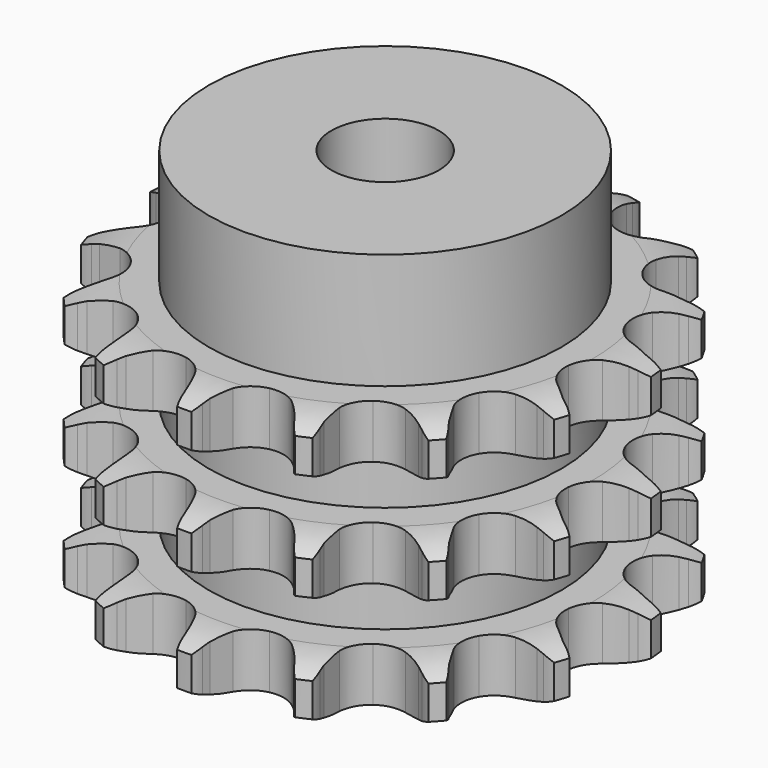
from build123d import *

# Parameters (mm, degrees)
PAD_DEPTH         = 34.9
SKETCH001_R       = 23
PAD001_DEPTH      = 50
SKETCH002_R       = 7
POCKET_DEPTH      = 0.001
POCKET_DEPTH_BACK = 50.001


with BuildPart() as part:
    # Sprocket → Pad (new body)
    with BuildSketch(Plane.XY):
        with BuildLine():
            ThreePointArc((-7.127097, 33.530356), (-6.027349, 32.389939), (-5.208009, 31.033962))
            Line((-5.208009, 31.033962), (-4.811253, 30.172674))
            ThreePointArc((-4.811253, 30.172674), (-4.15519, 28.954231), (-3.352899, 27.826689))
            ThreePointArc((-3.352899, 27.826689), (-1.857386, 26.647722), (0, 26.227438))
            ThreePointArc((0, 26.227438), (1.857386, 26.647722), (3.352899, 27.826689))
            ThreePointArc((3.352899, 27.826689), (4.15519, 28.954231), (4.811253, 30.172674))
            Line((4.811253, 30.172674), (5.208009, 31.033962))
            ThreePointArc((5.208009, 31.033962), (6.027349, 32.389939), (7.127097, 33.530356))
            ThreePointArc((7.127097, 33.530356), (7.667917, 32.041226), (7.864897, 30.469223))
            Line((7.864897, 30.469223), (7.877034, 29.521022))
            ThreePointArc((7.877034, 29.521022), (7.980792, 28.141074), (8.255108, 26.784692))
            ThreePointArc((8.255108, 26.784692), (9.141798, 25.099372), (10.66766, 23.959957))
            ThreePointArc((10.66766, 23.959957), (12.535412, 23.588438), (14.38116, 24.057198))
            Line((14.38116, 24.057198), (16.667631, 25.607196))
            ThreePointArc((16.667631, 25.607196), (17.017348, 25.927521), (17.380402, 26.232647))
            ThreePointArc((17.380402, 26.232647), (18.680433, 27.138138), (20.148952, 27.732653))
            ThreePointArc((20.148952, 27.732653), (20.037332, 26.152293), (19.57789, 24.636078))
            Line((19.57789, 24.636078), (19.20331, 23.764918))
            ThreePointArc((19.20331, 23.764918), (18.736823, 22.46207), (18.435732, 21.111379))
            ThreePointArc((18.435732, 21.111379), (18.560282, 19.211113), (19.490785, 17.549582))
            ThreePointArc((19.490785, 17.549582), (21.045951, 16.450499), (22.922787, 16.128))
            Line((22.922787, 16.128), (25.642023, 16.614002))
            ThreePointArc((25.642023, 16.614002), (26.091794, 16.76439), (26.547566, 16.895469))
            ThreePointArc((26.547566, 16.895469), (28.1035, 17.193906), (29.686869, 17.139722))
            ThreePointArc((29.686869, 17.139722), (28.942109, 15.741392), (27.905688, 14.543132))
            Line((27.905688, 14.543132), (27.209159, 13.899643))
            ThreePointArc((27.209159, 13.899643), (26.253086, 12.89917), (25.428651, 11.787716))
            ThreePointArc((25.428651, 11.787716), (24.769525, 10.001078), (24.943776, 8.104724))
            ThreePointArc((24.943776, 8.104724), (25.917453, 6.46812), (27.500857, 5.410123))
            Line((27.500857, 5.410123), (30.182677, 4.748095))
            ThreePointArc((30.182677, 4.748095), (30.654731, 4.702544), (31.124415, 4.636911))
            ThreePointArc((31.124415, 4.636911), (32.667216, 4.276692), (34.091658, 3.583178))
            ThreePointArc((34.091658, 3.583178), (32.842533, 2.60866), (31.40834, 1.935546))
            Line((31.40834, 1.935546), (30.510298, 1.630994))
            ThreePointArc((30.510298, 1.630994), (29.229953, 1.105886), (28.024725, 0.425851))
            ThreePointArc((28.024725, 0.425851), (26.695892, -0.938234), (26.083761, -2.741514))
            ThreePointArc((26.083761, -2.741514), (26.307593, -4.632657), (27.323778, -6.243213))
            Line((27.323778, -6.243213), (29.504472, -7.9388))
            ThreePointArc((29.504472, -7.9388), (29.917188, -8.172415), (30.319569, -8.423411))
            ThreePointArc((30.319569, -8.423411), (31.582474, -9.380002), (32.601689, -10.592931))
            ThreePointArc((32.601689, -10.592931), (31.064185, -10.975132), (29.480204, -11.006713))
            Line((29.480204, -11.006713), (28.535929, -10.919669))
            ThreePointArc((28.535929, -10.919669), (27.152695, -10.878616), (25.775069, -11.009649))
            ThreePointArc((25.775069, -11.009649), (24.006297, -11.715317), (22.713628, -13.113719))
            ThreePointArc((22.713628, -13.113719), (22.148911, -14.932405), (22.42217, -16.81704))
            Line((22.42217, -16.81704), (23.724676, -19.253005))
            ThreePointArc((23.724676, -19.253005), (24.00669, -19.634289), (24.272195, -20.027249))
            ThreePointArc((24.272195, -20.027249), (25.036836, -21.414807), (25.474591, -22.937425))
            ThreePointArc((25.474591, -22.937425), (23.914557, -22.661224), (22.454672, -22.045812))
            Line((22.454672, -22.045812), (21.627439, -21.582222))
            ThreePointArc((21.627439, -21.582222), (20.380489, -20.982106), (19.06867, -20.54148))
            ThreePointArc((19.06867, -20.54148), (17.165795, -20.466715), (15.416101, -21.218443))
            ThreePointArc((15.416101, -21.218443), (14.160481, -22.650204), (13.643565, -24.483049))
            Line((13.643565, -24.483049), (13.842667, -27.23819))
            ThreePointArc((13.842667, -27.23819), (13.945218, -27.701216), (14.027938, -28.168193))
            ThreePointArc((14.027938, -28.168193), (14.162101, -29.746799), (13.942706, -31.31583))
            ThreePointArc((13.942706, -31.31583), (12.629885, -30.428985), (11.546525, -29.272989))
            Line((11.546525, -29.272989), (10.979368, -28.513013))
            ThreePointArc((10.979368, -28.513013), (10.084312, -27.4576), (9.065124, -26.521502))
            ThreePointArc((9.065124, -26.521502), (7.357171, -25.679233), (5.452991, -25.654306))
            ThreePointArc((5.452991, -25.654306), (3.723575, -26.451577), (2.505864, -27.915716))
            Line((2.505864, -27.915716), (1.567136, -30.513645))
            ThreePointArc((1.567136, -30.513645), (1.472491, -30.978351), (1.358122, -31.438601))
            ThreePointArc((1.358122, -31.438601), (0.83861, -32.935298), (0, -34.279444))
            ThreePointArc((0, -34.279444), (-0.83861, -32.935298), (-1.358122, -31.438601))
            Line((-1.358122, -31.438601), (-1.567136, -30.513645))
            ThreePointArc((-1.567136, -30.513645), (-1.955535, -29.185425), (-2.505864, -27.915716))
            ThreePointArc((-2.505864, -27.915716), (-3.723575, -26.451577), (-5.452991, -25.654306))
            ThreePointArc((-5.452991, -25.654306), (-7.357171, -25.679233), (-9.065124, -26.521502))
            Line((-9.065124, -26.521502), (-10.979368, -28.513013))
            ThreePointArc((-10.979368, -28.513013), (-11.254843, -28.899048), (-11.546525, -29.272989))
            ThreePointArc((-11.546525, -29.272989), (-12.629885, -30.428985), (-13.942706, -31.31583))
            ThreePointArc((-13.942706, -31.31583), (-14.162101, -29.746799), (-14.027938, -28.168193))
            Line((-14.027938, -28.168193), (-13.842667, -27.23819))
            ThreePointArc((-13.842667, -27.23819), (-13.657251, -25.866824), (-13.643565, -24.483049))
            ThreePointArc((-13.643565, -24.483049), (-14.160481, -22.650204), (-15.416101, -21.218443))
            ThreePointArc((-15.416101, -21.218443), (-17.165795, -20.466715), (-19.06867, -20.54148))
            Line((-19.06867, -20.54148), (-21.627439, -21.582222))
            ThreePointArc((-21.627439, -21.582222), (-22.036113, -21.822837), (-22.454672, -22.045812))
            ThreePointArc((-22.454672, -22.045812), (-23.914557, -22.661224), (-25.474591, -22.937425))
            ThreePointArc((-25.474591, -22.937425), (-25.036836, -21.414807), (-24.272195, -20.027249))
            Line((-24.272195, -20.027249), (-23.724676, -19.253005))
            ThreePointArc((-23.724676, -19.253005), (-22.997505, -18.075615), (-22.42217, -16.81704))
            ThreePointArc((-22.42217, -16.81704), (-22.148911, -14.932405), (-22.713628, -13.113719))
            ThreePointArc((-22.713628, -13.113719), (-24.006297, -11.715317), (-25.775069, -11.009649))
            Line((-25.775069, -11.009649), (-28.535929, -10.919669))
            ThreePointArc((-28.535929, -10.919669), (-29.007138, -10.973259), (-29.480204, -11.006713))
            ThreePointArc((-29.480204, -11.006713), (-31.064185, -10.975132), (-32.601689, -10.592931))
            ThreePointArc((-32.601689, -10.592931), (-31.582474, -9.380002), (-30.319569, -8.423411))
            Line((-30.319569, -8.423411), (-29.504472, -7.9388))
            ThreePointArc((-29.504472, -7.9388), (-28.361282, -7.158968), (-27.323778, -6.243213))
            ThreePointArc((-27.323778, -6.243213), (-26.307593, -4.632657), (-26.083761, -2.741514))
            ThreePointArc((-26.083761, -2.741514), (-26.695892, -0.938234), (-28.024725, 0.425851))
            Line((-28.024725, 0.425851), (-30.510298, 1.630994))
            ThreePointArc((-30.510298, 1.630994), (-30.962566, 1.773695), (-31.40834, 1.935546))
            ThreePointArc((-31.40834, 1.935546), (-32.842533, 2.60866), (-34.091658, 3.583178))
            ThreePointArc((-34.091658, 3.583178), (-32.667216, 4.276692), (-31.124415, 4.636911))
            Line((-31.124415, 4.636911), (-30.182677, 4.748095))
            ThreePointArc((-30.182677, 4.748095), (-28.821135, 4.995529), (-27.500857, 5.410123))
            ThreePointArc((-27.500857, 5.410123), (-25.917453, 6.46812), (-24.943776, 8.104724))
            ThreePointArc((-24.943776, 8.104724), (-24.769525, 10.001078), (-25.428651, 11.787716))
            Line((-25.428651, 11.787716), (-27.209159, 13.899643))
            ThreePointArc((-27.209159, 13.899643), (-27.564285, 14.213961), (-27.905688, 14.543132))
            ThreePointArc((-27.905688, 14.543132), (-28.942109, 15.741392), (-29.686869, 17.139722))
            ThreePointArc((-29.686869, 17.139722), (-28.1035, 17.193906), (-26.547566, 16.895469))
            Line((-26.547566, 16.895469), (-25.642023, 16.614002))
            ThreePointArc((-25.642023, 16.614002), (-24.297552, 16.286255), (-22.922787, 16.128))
            ThreePointArc((-22.922787, 16.128), (-21.045951, 16.450499), (-19.490785, 17.549582))
            ThreePointArc((-19.490785, 17.549582), (-18.560282, 19.211113), (-18.435732, 21.111379))
            Line((-18.435732, 21.111379), (-19.20331, 23.764918))
            ThreePointArc((-19.20331, 23.764918), (-19.399888, 24.196504), (-19.57789, 24.636078))
            ThreePointArc((-19.57789, 24.636078), (-20.037332, 26.152293), (-20.148952, 27.732653))
            ThreePointArc((-20.148952, 27.732653), (-18.680433, 27.138138), (-17.380402, 26.232647))
            Line((-17.380402, 26.232647), (-16.667631, 25.607196))
            ThreePointArc((-16.667631, 25.607196), (-15.572701, 24.760939), (-14.38116, 24.057198))
            ThreePointArc((-14.38116, 24.057198), (-12.535412, 23.588438), (-10.66766, 23.959957))
            ThreePointArc((-10.66766, 23.959957), (-9.141798, 25.099372), (-8.255108, 26.784692))
            Line((-8.255108, 26.784692), (-7.877034, 29.521022))
            ThreePointArc((-7.877034, 29.521022), (-7.881075, 29.995252), (-7.864897, 30.469223))
            ThreePointArc((-7.864897, 30.469223), (-7.667917, 32.041226), (-7.127097, 33.530356))
        make_face()
    extrude(amount=PAD_DEPTH)

    # Sketch → Groove (revolve, cut)
    with BuildSketch(Plane.XZ):
        with BuildLine():
            ThreePointArc((27.083431, 0), (29.99032, 0.329167), (32.75, 1.3))
            Line((32.75, 1.3), (32.75, 5.7))
            ThreePointArc((32.75, 5.7), (29.99032, 6.670833), (27.083431, 7))
            Line((23, 7), (27.083431, 7))
            Line((23, 7), (23, 13.95))
            Line((23, 13.95), (27.083431, 13.95))
            ThreePointArc((27.083431, 13.95), (29.99032, 14.279167), (32.75, 15.25))
            Line((32.75, 19.65), (32.75, 15.25))
            ThreePointArc((32.75, 19.65), (29.99032, 20.620833), (27.083431, 20.95))
            Line((23, 20.95), (27.083431, 20.95))
            Line((23, 27.9), (23, 20.95))
            Line((27.083431, 27.9), (23, 27.9))
            ThreePointArc((27.083431, 27.9), (29.99032, 28.229167), (32.75, 29.2))
            Line((32.75, 29.2), (32.75, 33.6))
            ThreePointArc((32.75, 33.6), (29.99032, 34.570833), (27.083431, 34.9))
            Line((27.083431, 34.9), (42.75, 34.9))
            Line((42.75, 34.9), (42.75, 0))
            Line((27.083431, 0), (42.75, 0))
        make_face()
    revolve(axis=Axis((0, 0, 0), (0, 0, 1)), mode=Mode.SUBTRACT)

    # Sketch001 → Pad001 (join)
    with BuildSketch(Plane.XY):
        Circle(SKETCH001_R)
    extrude(amount=PAD001_DEPTH)

    # Sketch002 → Pocket (cut, two sides)
    with BuildSketch(Plane.XY) as pocket_sk:
        Circle(SKETCH002_R)
    extrude(amount=-POCKET_DEPTH, mode=Mode.SUBTRACT)
    extrude(pocket_sk.sketch, amount=POCKET_DEPTH_BACK, mode=Mode.SUBTRACT)


solid = part.part
